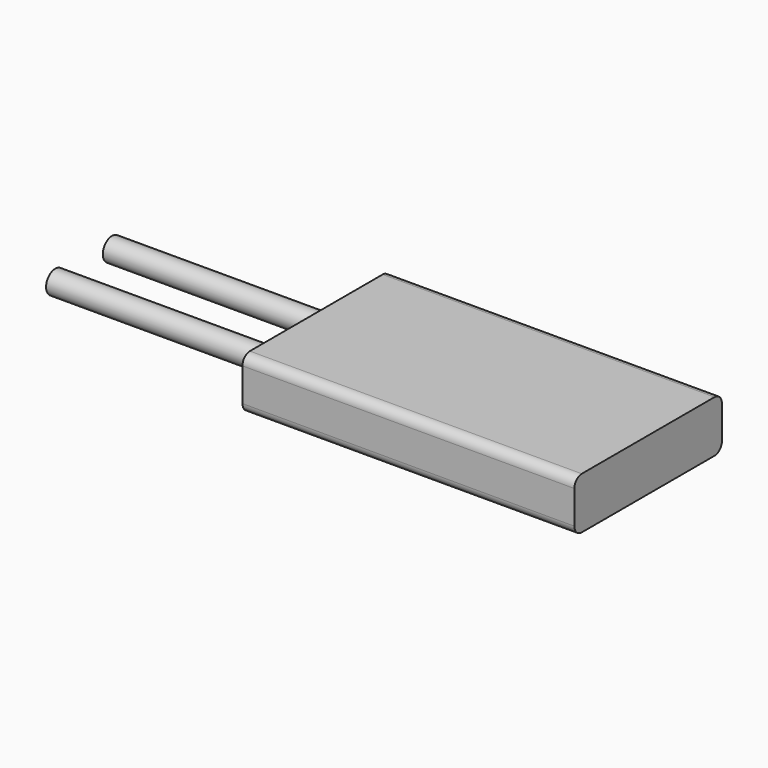
from build123d import *

# Parameters (mm, degrees)
F0_W     = 36
F0_H     = 20
F1_DEPTH = 2.8
F2_R     = 1.25
F3_DEPTH = 25
F4_R     = 1


with BuildPart() as f1:
    # F0 (on Top) → F1 (new body, symmetric)
    with BuildSketch(Plane.XY):
        Rectangle(F0_W, F0_H)
    extrude(amount=F1_DEPTH, both=True)

    # F2 (on face) → F3 (join)
    with BuildSketch(Plane(origin=(-18, 0, 0), x_dir=(0, -1, 0), z_dir=(-1, 0, 0))):
        with Locations((-3.5708139185, -0.681526144)):
            Circle(F2_R)
        with Locations((4.1246912515, -0.681526144)):
            Circle(F2_R)
    extrude(amount=F3_DEPTH)

    # F4
    f4_edges = [f1.edges().sort_by_distance(p)[0] for p in [
        (0, -10, 2.8),
        (0, -10, -2.8),
        (0, 10, 2.8),
        (0, 10, -2.8),
    ]]
    fillet(f4_edges, radius=F4_R)


solid = f1.part
